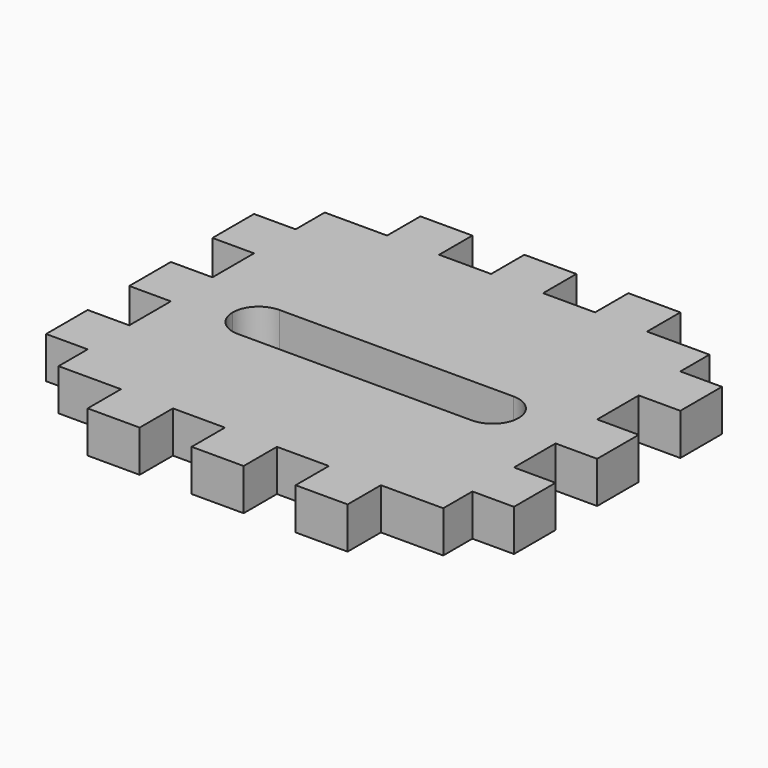
from build123d import *

# Parameters (mm, degrees)
F1_DEPTH = 10.16


with BuildPart() as f1:
    # F0 (on Top) → F1 (new body)
    with BuildSketch(Plane.XY):
        Polygon((38.1, 0), (25.4, 0), (25.4, -10.16), (10.16, -10.16), (10.16, -19.05), (0, -19.05), (0, -31.75), (10.16, -31.75), (10.16, -44.45), (0, -44.45), (0, -57.15), (10.16, -57.15), (10.16, -69.85), (0, -69.85), (0, -82.55), (10.16, -82.55), (10.16, -91.44), (25.4, -91.44), (25.4, -101.6), (38.1, -101.6), (38.1, -91.44), (50.8, -91.44), (50.8, -101.6), (63.5, -101.6), (63.5, -91.44), (76.2, -91.44), (76.2, -101.6), (88.9, -101.6), (88.9, -91.44), (104.14, -91.44), (104.14, -82.55), (114.3, -82.55), (114.3, -69.85), (104.14, -69.85), (104.14, -57.15), (114.3, -57.15), (114.3, -44.45), (104.14, -44.45), (104.14, -31.75), (114.3, -31.75), (114.3, -19.05), (104.14, -19.05), (104.14, -10.16), (88.9, -10.16), (88.9, 0), (76.2, 0), (76.2, -10.16), (63.5, -10.16), (63.5, 0), (50.8, 0), (50.8, -10.16), (38.1, -10.16), align=None)
        with BuildLine():
            ThreePointArc((22.225, -53.34), (24.084872, -48.849872), (28.575, -46.99))
            Line((28.575, -46.99), (85.725, -46.99))
            ThreePointArc((85.725, -46.99), (90.215128, -48.849872), (92.075, -53.34))
            ThreePointArc((92.075, -53.34), (90.215128, -57.830128), (85.725, -59.69))
            Line((85.725, -59.69), (28.575, -59.69))
            ThreePointArc((28.575, -59.69), (24.084872, -57.830128), (22.225, -53.34))
        make_face(mode=Mode.SUBTRACT)
    extrude(amount=F1_DEPTH)


solid = f1.part
